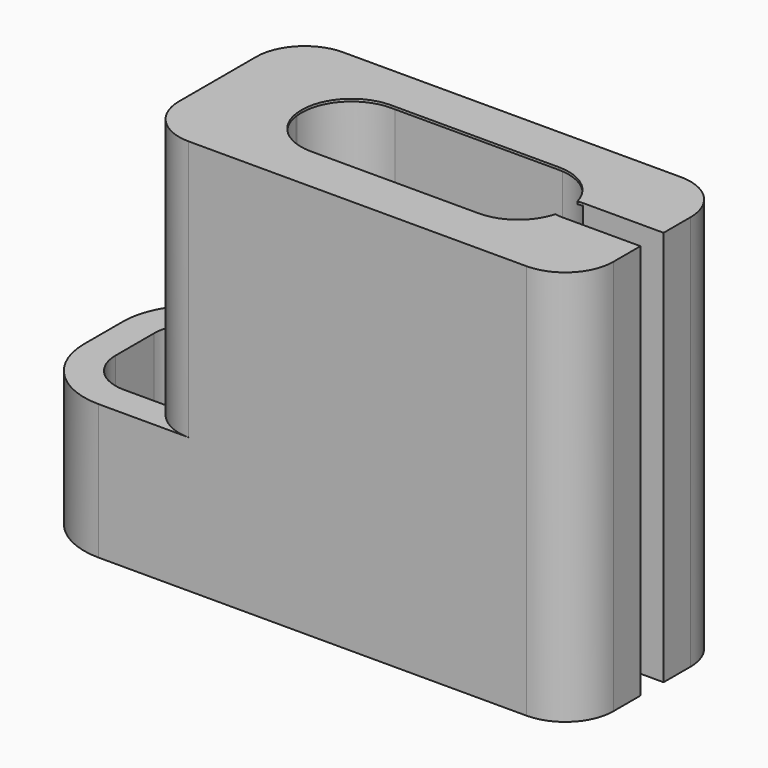
from build123d import *

# Parameters (mm, degrees)
F0_W      = 8
F0_H      = 2.5
F1_DEPTH  = 16.25
F3_DEPTH  = 16.2
F5_W      = 1.2
F5_H      = 18
F7_DEPTH  = 3.3507126627
F8_DEPTH  = 5.5
F10_DEPTH = 0.1
F12_DEPTH = 0.1


with BuildPart() as f1:
    # F0 (on Top) → F1 (new body)
    with BuildSketch(Plane.XY):
        with BuildLine():
            Line((-3.475, -2.275), (3.475, -2.275))
            ThreePointArc((3.475, -2.275), (5.0659902577, -1.6159902577), (5.725, -0.025))
            Line((5.725, -0.025), (5.725, 0.025))
            ThreePointArc((5.725, 0.025), (5.0659902577, 1.6159902577), (3.475, 2.275))
            Line((3.475, 2.275), (-3.475, 2.275))
            ThreePointArc((-3.475, 2.275), (-5.0659902577, 1.6159902577), (-5.725, 0.025))
            Line((-5.725, 0.025), (-5.725, -0.025))
            ThreePointArc((-5.725, -0.025), (-5.0659902577, -1.6159902577), (-3.475, -2.275))
        make_face()
        Rectangle(F0_W, F0_H, mode=Mode.SUBTRACT)
        Rectangle(F0_W, F0_H)
    extrude(amount=F1_DEPTH)


with BuildPart() as f3:
    # F2 (on Top) → F3 (new body)
    with BuildSketch(Plane.XY):
        with BuildLine():
            Line((-7, -4), (7, -4))
            ThreePointArc((7, -4), (8.4142135624, -3.4142135624), (9, -2))
            Line((9, -2), (9, 2))
            ThreePointArc((9, 2), (8.4142135624, 3.4142135624), (7, 4))
            Line((7, 4), (-7, 4))
            Line((-7, 4), (-7, -4))
        make_face()
        with BuildLine():
            ThreePointArc((-9, -2), (-8.9681207868, -2.3556691844), (-8.8734994313, -2.6999999151))
            Line((-8.8734994313, -2.6999999151), (-7.9164700583, -2.6999999151))
            Line((-7.9164700583, -2.6999999151), (-7.9164700583, 2.6999999151))
            Line((-7.9164700583, 2.6999999151), (-8.8734994313, 2.6999999151))
            ThreePointArc((-8.8734994313, 2.6999999151), (-8.9681207868, 2.3556691844), (-9, 2))
            Line((-9, 2), (-9, -2))
        make_face()
        with BuildLine():
            ThreePointArc((-8.8734994313, -2.6999999151), (-8.1401754623, -3.6431676467), (-7, -4))
            Line((-7, -4), (-7, 4))
            ThreePointArc((-7, 4), (-8.1401754623, 3.6431676467), (-8.8734994313, 2.6999999151))
            Line((-8.8734994313, 2.6999999151), (-7.9164700583, 2.6999999151))
            Line((-7.9164700583, 2.6999999151), (-7.9164700583, -2.6999999151))
            Line((-7.9164700583, -2.6999999151), (-8.8734994313, -2.6999999151))
        make_face()
    extrude(amount=F3_DEPTH)

    # F6: cut F1
    add(f1.part, mode=Mode.SUBTRACT)

    # F5 (on face) → F7 (cut, through all)
    with BuildSketch(Plane.YZ.offset(9)):
        with Locations((0, 8)):
            Rectangle(F5_W, F5_H)
    extrude(amount=-F7_DEPTH, mode=Mode.SUBTRACT)

    # F2 (on Top) → F8 (join)
    with BuildSketch(Plane.XY):
        with BuildLine():
            Line((-10.7359819859, -4), (-7, -4))
            ThreePointArc((-7, -4), (-8.1401754623, -3.6431676467), (-8.8734994313, -2.6999999151))
            Line((-8.8734994313, -2.6999999151), (-10.7359819859, -2.6999999151))
            ThreePointArc((-10.7359819859, -2.6999999151), (-11.9380634539, -2.202081468), (-12.435981901, -1))
            Line((-12.435981901, -1), (-12.435981901, 1))
            ThreePointArc((-12.435981901, 1), (-11.9380634539, 2.202081468), (-10.7359819859, 2.6999999151))
            Line((-10.7359819859, 2.6999999151), (-8.8734994313, 2.6999999151))
            ThreePointArc((-8.8734994313, 2.6999999151), (-8.1401754623, 3.6431676467), (-7, 4))
            Line((-7, 4), (-10.7359819859, 4))
            ThreePointArc((-10.7359819859, 4), (-12.8573023295, 3.1213203436), (-13.7359819859, 1))
            Line((-13.7359819859, 1), (-13.7359819859, -1))
            ThreePointArc((-13.7359819859, -1), (-12.8573023295, -3.1213203436), (-10.7359819859, -4))
        make_face()
    extrude(amount=F8_DEPTH)

    # F9 (on face) → F10 (join)
    with BuildSketch(Plane.XY.offset(16.2)):
        with BuildLine():
            Line((3.475, -2.0750000357), (-3.475, -2.0750000357))
            ThreePointArc((-3.475, -2.0750000357), (-4.9245689267, -1.4745689267), (-5.5250000357, -0.025))
            Line((-5.5250000357, -0.025), (-5.5250000357, 0.025))
            ThreePointArc((-5.5250000357, 0.025), (-4.9245689267, 1.4745689267), (-3.475, 2.0750000357))
            Line((-3.475, 2.0750000357), (3.475, 2.0750000357))
            ThreePointArc((3.475, 2.0750000357), (4.7156218246, 1.6569796674), (5.4502873731, 0.5733976115))
            Line((5.4502873731, 0.5733976115), (5.6502873373, 0.6))
            ThreePointArc((5.6502873373, 0.6), (4.8477253913, 1.8077296486), (3.475, 2.275))
            Line((3.475, 2.275), (-3.475, 2.275))
            ThreePointArc((-3.475, 2.275), (-5.0659902577, 1.6159902577), (-5.725, 0.025))
            Line((-5.725, 0.025), (-5.725, -0.025))
            ThreePointArc((-5.725, -0.025), (-5.0659902577, -1.6159902577), (-3.475, -2.275))
            Line((-3.475, -2.275), (3.475, -2.275))
            ThreePointArc((3.475, -2.275), (4.8477253913, -1.8077296486), (5.6502873373, -0.6))
            Line((5.6502873373, -0.6), (5.4502873731, -0.5733976115))
            ThreePointArc((5.4502873731, -0.5733976115), (4.7156218246, -1.6569796674), (3.475, -2.0750000357))
        make_face()
        with BuildLine():
            Line((9, -0.6), (5.6502873373, -0.6))
            ThreePointArc((5.6502873373, -0.6), (4.8477253913, -1.8077296486), (3.475, -2.275))
            Line((3.475, -2.275), (-3.475, -2.275))
            ThreePointArc((-3.475, -2.275), (-5.0659902577, -1.6159902577), (-5.725, -0.025))
            Line((-5.725, -0.025), (-5.725, 0.025))
            ThreePointArc((-5.725, 0.025), (-5.0659902577, 1.6159902577), (-3.475, 2.275))
            Line((-3.475, 2.275), (3.475, 2.275))
            ThreePointArc((3.475, 2.275), (4.8477253913, 1.8077296486), (5.6502873373, 0.6))
            Line((5.6502873373, 0.6), (9, 0.6))
            Line((9, 0.6), (9, 2))
            ThreePointArc((9, 2), (8.4142135624, 3.4142135624), (7, 4))
            Line((7, 4), (-7, 4))
            ThreePointArc((-7, 4), (-8.4142135624, 3.4142135624), (-9, 2))
            Line((-9, 2), (-9, -2))
            ThreePointArc((-9, -2), (-8.4142135624, -3.4142135624), (-7, -4))
            Line((-7, -4), (7, -4))
            ThreePointArc((7, -4), (8.4142135624, -3.4142135624), (9, -2))
            Line((9, -2), (9, -0.6))
        make_face()
    extrude(amount=F10_DEPTH)

    # F11 (on face) → F12 (join)
    with BuildSketch(Plane(origin=(0, 0, 0), x_dir=(1, 0, 0), z_dir=(0, 0, -1))):
        with BuildLine():
            ThreePointArc((5.4502873731, -0.5733976115), (4.7156218246, -1.6569796674), (3.475, -2.0750000357))
            Line((3.475, -2.0750000357), (-3.475, -2.0750000357))
            ThreePointArc((-3.475, -2.0750000357), (-4.9245689267, -1.4745689267), (-5.5250000357, -0.025))
            Line((-5.5250000357, -0.025), (-5.5250000357, 0.025))
            ThreePointArc((-5.5250000357, 0.025), (-4.9245689267, 1.4745689267), (-3.475, 2.0750000357))
            Line((-3.475, 2.0750000357), (3.475, 2.0750000357))
            ThreePointArc((3.475, 2.0750000357), (4.7156218246, 1.6569796674), (5.4502873731, 0.5733976115))
            Line((5.4502873731, 0.5733976115), (5.6502873373, 0.6))
            ThreePointArc((5.6502873373, 0.6), (4.8477253913, 1.8077296486), (3.475, 2.275))
            Line((3.475, 2.275), (-3.475, 2.275))
            ThreePointArc((-3.475, 2.275), (-5.0659902577, 1.6159902577), (-5.725, 0.025))
            Line((-5.725, 0.025), (-5.725, -0.025))
            ThreePointArc((-5.725, -0.025), (-5.0659902577, -1.6159902577), (-3.475, -2.275))
            Line((-3.475, -2.275), (3.475, -2.275))
            ThreePointArc((3.475, -2.275), (4.8477253913, -1.8077296486), (5.6502873373, -0.6))
            Line((5.6502873373, -0.6), (5.4502873731, -0.5733976115))
        make_face()
        with BuildLine():
            Line((9, -0.6), (5.6502873373, -0.6))
            ThreePointArc((5.6502873373, -0.6), (4.8477253913, -1.8077296486), (3.475, -2.275))
            Line((3.475, -2.275), (-3.475, -2.275))
            ThreePointArc((-3.475, -2.275), (-5.0659902577, -1.6159902577), (-5.725, -0.025))
            Line((-5.725, -0.025), (-5.725, 0.025))
            ThreePointArc((-5.725, 0.025), (-5.0659902577, 1.6159902577), (-3.475, 2.275))
            Line((-3.475, 2.275), (3.475, 2.275))
            ThreePointArc((3.475, 2.275), (4.8477253913, 1.8077296486), (5.6502873373, 0.6))
            Line((5.6502873373, 0.6), (9, 0.6))
            Line((9, 0.6), (9, 2))
            ThreePointArc((9, 2), (8.4142135624, 3.4142135624), (7, 4))
            Line((7, 4), (-7, 4))
            Line((-7, 4), (-10.7359819859, 4))
            ThreePointArc((-10.7359819859, 4), (-12.8573023295, 3.1213203436), (-13.7359819859, 1))
            Line((-13.7359819859, 1), (-13.7359819859, -1))
            ThreePointArc((-13.7359819859, -1), (-12.8573023295, -3.1213203436), (-10.7359819859, -4))
            Line((-10.7359819859, -4), (-7, -4))
            Line((-7, -4), (7, -4))
            ThreePointArc((7, -4), (8.4142135624, -3.4142135624), (9, -2))
            Line((9, -2), (9, -0.6))
        make_face()
        with BuildLine():
            Line((-10.7359819859, 2.6999999151), (-8.8734994313, 2.6999999151))
            ThreePointArc((-8.8734994313, 2.6999999151), (-8.9681207868, 2.3556691844), (-9, 2))
            Line((-9, 2), (-9, -2))
            ThreePointArc((-9, -2), (-8.9681207868, -2.3556691844), (-8.8734994313, -2.6999999151))
            Line((-8.8734994313, -2.6999999151), (-10.7359819859, -2.6999999151))
            ThreePointArc((-10.7359819859, -2.6999999151), (-11.9380634539, -2.202081468), (-12.435981901, -1))
            Line((-12.435981901, -1), (-12.435981901, 1))
            ThreePointArc((-12.435981901, 1), (-11.9380634539, 2.202081468), (-10.7359819859, 2.6999999151))
        make_face(mode=Mode.SUBTRACT)
    extrude(amount=F12_DEPTH)


solid = f3.part
